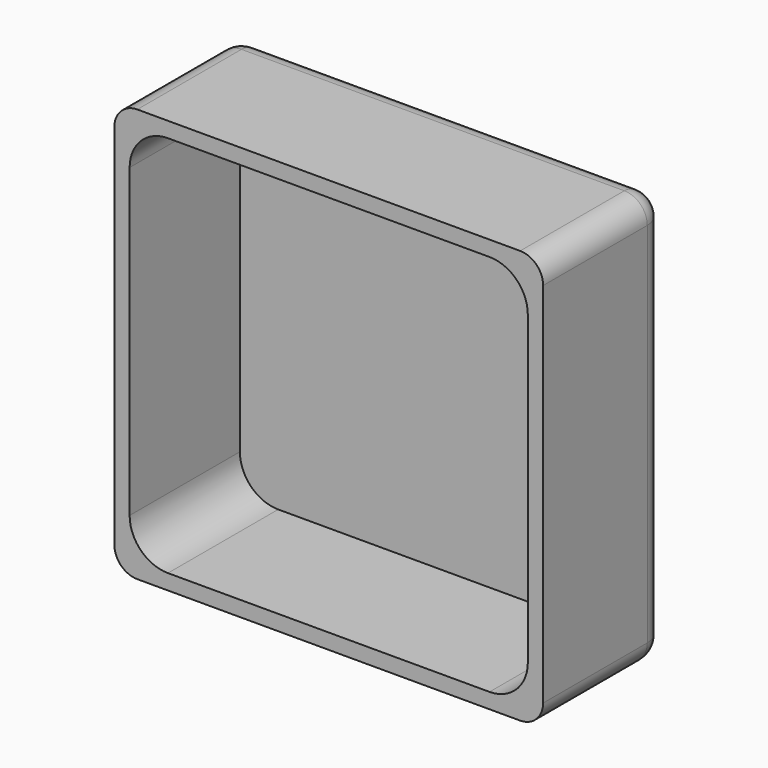
from build123d import *

# Parameters (mm, degrees)
F0_W     = 56
F0_H     = 54
F1_DEPTH = 20
F3_DEPTH = 18
F4_R     = 3
F5_R     = 3


with BuildPart() as f1:
    # F0 (on Front) → F1 (new body)
    with BuildSketch(Plane.XZ):
        with Locations((8.203572, -3.872868)):
            Rectangle(F0_W, F0_H)
    extrude(amount=F1_DEPTH)

    # F2 (on face) → F3 (cut)
    with BuildSketch(Plane.XZ.offset(20)):
        with BuildLine():
            Line((29.203572, 21.127132), (-12.796428, 21.127132))
            ThreePointArc((-12.796428, 21.127132), (-16.331962, 19.662666), (-17.796428, 16.127132))
            Line((-17.796428, 16.127132), (-17.796428, -23.872868))
            ThreePointArc((-17.796428, -23.872868), (-16.331962, -27.408402), (-12.796428, -28.872868))
            Line((-12.796428, -28.872868), (29.203572, -28.872868))
            ThreePointArc((29.203572, -28.872868), (32.739106, -27.408402), (34.203572, -23.872868))
            Line((34.203572, -23.872868), (34.203572, 16.127132))
            ThreePointArc((34.203572, 16.127132), (32.739106, 19.662666), (29.203572, 21.127132))
        make_face()
    extrude(amount=-F3_DEPTH, mode=Mode.SUBTRACT)

    # F4
    f4_edges = [f1.edges().sort_by_distance(p)[0] for p in [
        (36.203572, -10, 23.127132),
        (-19.796428, -10, 23.127132),
        (36.203572, -10, -30.872868),
        (-19.796428, -10, -30.872868),
    ]]
    fillet(f4_edges, radius=F4_R)

    # F5
    f5_edges = [f1.edges().sort_by_distance(p)[0] for p in [
        (8.203572, 0, 23.127132),
    ]]
    fillet(f5_edges, radius=F5_R)


solid = f1.part
